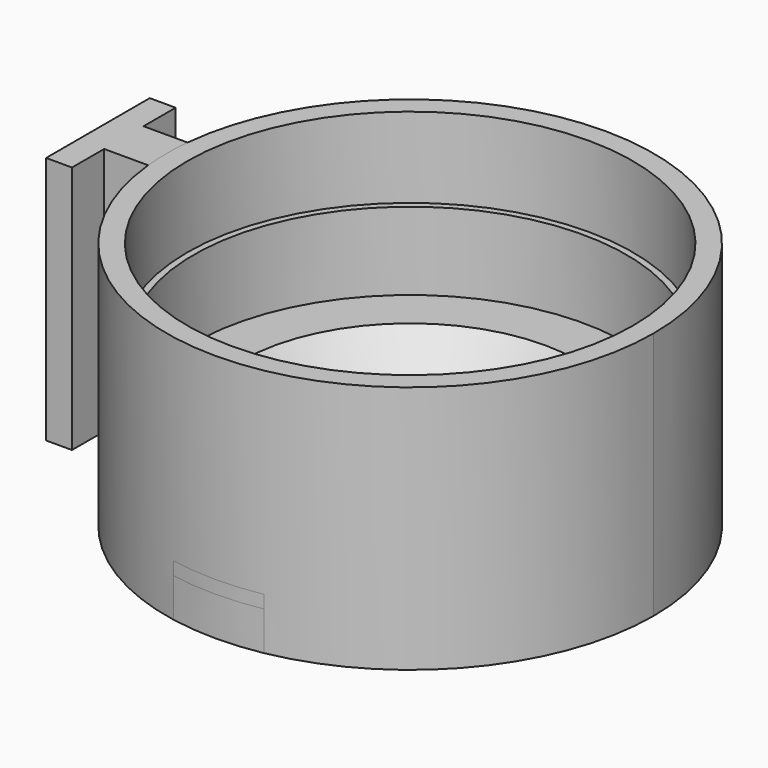
from build123d import *

# Parameters (mm, degrees)
F0_R      = 11.938
F1_DEPTH  = 12.192
F2_R      = 6.35
F3_DEPTH  = 12.193
F4_R      = 10.6045
F5_DEPTH  = 7.747
F6_SIZE   = 1.905
F7_R      = 10.922
F8_DEPTH  = 3.937
F9_W      = 4.445
F9_H      = 23.876
F10_DEPTH = 1.905
F13_DEPTH = 1.905
F14_W     = 6.604
F14_H     = 0.254
F15_DEPTH = 2.54
F17_DEPTH = 12.192


with BuildPart() as f1:
    # F0 (on Top) → F1 (new body)
    with BuildSketch(Plane.XY):
        Circle(F0_R)
    extrude(amount=-F1_DEPTH)

    # F2 (on face) → F3 (cut, through all)
    with BuildSketch(Plane.XY):
        Circle(F2_R)
    extrude(amount=-F3_DEPTH, mode=Mode.SUBTRACT)

    # F4 (on face) → F5 (cut)
    with BuildSketch(Plane.XY):
        Circle(F4_R)
    extrude(amount=-F5_DEPTH, mode=Mode.SUBTRACT)

    # F6
    f6_edges = [f1.edges().sort_by_distance(p)[0] for p in [
        (-6.35, 0, -7.747),
    ]]
    chamfer(f6_edges, length=F6_SIZE)

    # F7 (on Top) → F8 (cut)
    with BuildSketch(Plane.XY):
        Circle(F7_R)
    extrude(amount=-F8_DEPTH, mode=Mode.SUBTRACT)

    # F9 (on face) → F10 (cut)
    with BuildSketch(Plane(origin=(0, 0, -12.192), x_dir=(1, 0, 0), z_dir=(0, 0, -1))):
        Rectangle(F9_W, F9_H)
    extrude(amount=-F10_DEPTH, mode=Mode.SUBTRACT)

    # F12 (on offset) → F13 (cut)
    with BuildSketch(Plane(origin=(0, 0, -12.192), x_dir=(1, 0, 0), z_dir=(0, 0, -1))):
        Polygon((0, 9.144), (-2.2225, 9.144), (-5.08, 1.524), (0, 1.524), align=None)
        Polygon((2.2225, 9.144), (0, 9.144), (0, 1.524), (5.08, 1.524), align=None)
        Polygon((0, -9.144), (2.2225, -9.144), (5.08, -1.524), (0, -1.524), (-5.08, -1.524), (-2.2225, -9.144), align=None)
    extrude(amount=-F13_DEPTH, mode=Mode.SUBTRACT)

    # F14 (on offset) → F15 (join)
    with BuildSketch(Plane(origin=(0, 0, -12.192), x_dir=(1, 0, 0), z_dir=(0, 0, -1))):
        with BuildLine():
            ThreePointArc((2.2225, 11.7292940005), (0, 11.938), (-2.2225, 11.7292940005))
            Line((-2.2225, 11.7292940005), (-2.2225, 11.4752940005))
            Line((-2.2225, 11.4752940005), (2.2225, 11.4752940005))
            Line((2.2225, 11.4752940005), (2.2225, 11.7292940005))
        make_face()
        with Locations((0, 9.1892940005)):
            Rectangle(F14_W, F14_H)
        with Locations((0, 6.9032940005)):
            Rectangle(F14_W, F14_H)
        with Locations((0, -6.9032940005)):
            Rectangle(F14_W, F14_H)
        with Locations((0, -9.1892940005)):
            Rectangle(F14_W, F14_H)
        with BuildLine():
            ThreePointArc((-2.2225, -11.7292940005), (0, -11.938), (2.2225, -11.7292940005))
            Line((2.2225, -11.7292940005), (2.2225, -11.4752940005))
            Line((2.2225, -11.4752940005), (-2.2225, -11.4752940005))
            Line((-2.2225, -11.4752940005), (-2.2225, -11.7292940005))
        make_face()
    extrude(amount=-F15_DEPTH)

    # F16 (on Top) → F17 (join)
    with BuildSketch(Plane.XY):
        with BuildLine():
            ThreePointArc((-11.8768767675, -1.2065), (-11.938, 0), (-11.8768767675, 1.2065))
            Line((-11.8768767675, 1.2065), (-14.0358767675, 1.2065))
            Line((-14.0358767675, 1.2065), (-14.0358767675, 3.175))
            Line((-14.0358767675, 3.175), (-15.3058767675, 3.175))
            Line((-15.3058767675, 3.175), (-15.3058767675, 0))
            Line((-15.3058767675, 0), (-15.3058767675, -3.175))
            Line((-15.3058767675, -3.175), (-14.0358767675, -3.175))
            Line((-14.0358767675, -3.175), (-14.0358767675, -1.2065))
            Line((-14.0358767675, -1.2065), (-11.8768767675, -1.2065))
        make_face()
    extrude(amount=-F17_DEPTH)


solid = f1.part
